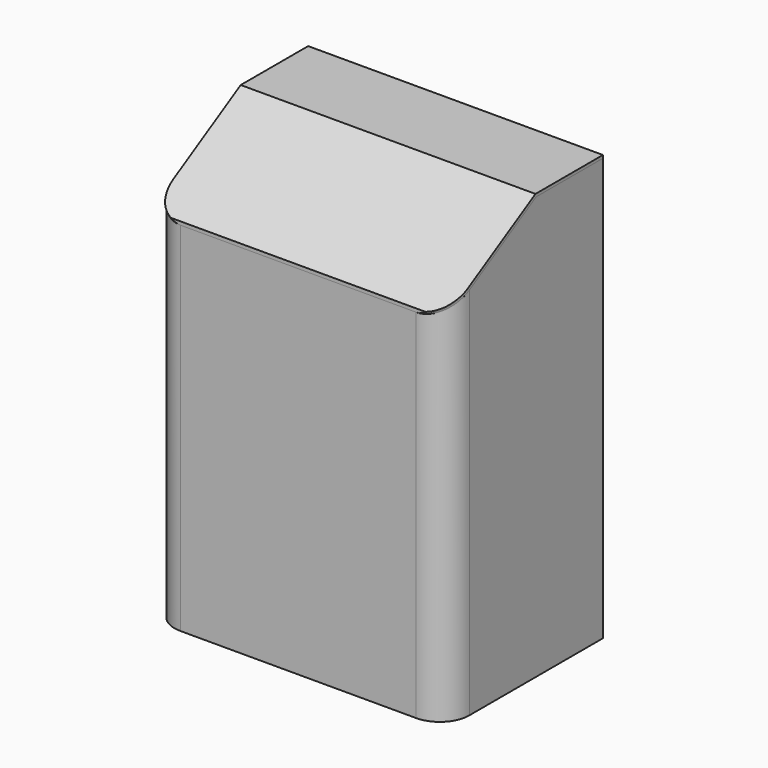
from build123d import *

# Parameters (mm, degrees)
F1_DEPTH = 430
F3_DEPTH = 455
F5_DEPTH = 300
F7_DEPTH = 16


with BuildPart() as f1:
    # F0 (on Top) → F1 (new body)
    with BuildSketch(Plane.XY):
        with BuildLine():
            Line((-270, 0), (-30, 0))
            ThreePointArc((-30, 0), (-8.7867965644, 8.7867965644), (0, 30))
            Line((0, 30), (0, 200))
            Line((0, 200), (-3, 200))
            Line((-3, 200), (-3, 30))
            ThreePointArc((-3, 30), (-10.908116908, 10.908116908), (-30, 3))
            Line((-30, 3), (-270, 3))
            ThreePointArc((-270, 3), (-289.091883092, 10.908116908), (-297, 30))
            Line((-297, 30), (-297, 200))
            Line((-297, 200), (-300, 200))
            Line((-300, 200), (-300, 30))
            ThreePointArc((-300, 30), (-291.2132034356, 8.7867965644), (-270, 0))
        make_face()
    extrude(amount=F1_DEPTH)

    # F2 (on face) → F3 (cut)
    with BuildSketch(Plane(origin=(-300, 0, 0), x_dir=(0, -1, 0), z_dir=(-1, 0, 0))):
        Polygon((118.6937963123, 430), (-30, 430), (-30, 380.9252271189), (118.6937963123, 295.0768237912), align=None)
        Polygon((-30, 430), (-115, 430), (-30, 380.9252271189), align=None)
    extrude(amount=-F3_DEPTH, mode=Mode.SUBTRACT)


with BuildPart() as f5:
    # F4 (on face) → F5 (new body)
    with BuildSketch(Plane(origin=(-300, 0, 0), x_dir=(0, -1, 0), z_dir=(-1, 0, 0))):
        Polygon((-200, 430), (-115, 430), (-30, 380.9252271189), (0, 363.6047190432), (0, 367.0688206583), (-28.5, 383.5233033302), (-114.1961524227, 433), (-200, 433), align=None)
    extrude(amount=-F5_DEPTH)

    # F6 (on face) → F7 (cut)
    with BuildSketch(Plane(origin=(0, -157.4454618137, 272.7035392824), x_dir=(1, 0, 0), z_dir=(0, 0.5, -0.8660254038))):
        with BuildLine():
            Line((0, -181.8023595216), (-30, -181.8023595216))
            add(Edge.make_bspline(
                [(0, -216.443375673), (0, -181.8023595216), (-30, -181.8023595216)],
                knots=[4.7123889804, 4.7123889804, 4.7123889804, 6.2831853072, 6.2831853072, 6.2831853072], degree=2, weights=[1, 0.7071067812, 1]))
            Line((0, -216.443375673), (0, -181.8023595216))
        make_face()
        with BuildLine():
            add(Edge.make_bspline(
                [(-270, -181.8023595216), (-300, -181.8023595216), (-300, -216.443375673)],
                knots=[0, 0, 0, 1.5707963268, 1.5707963268, 1.5707963268], degree=2, weights=[1, 0.7071067812, 1]))
            Line((-270, -181.8023595216), (-300, -181.8023595216))
            Line((-300, -181.8023595216), (-300, -216.443375673))
        make_face()
    extrude(amount=-F7_DEPTH, mode=Mode.SUBTRACT)


solid = Compound([f1.part, f5.part])
